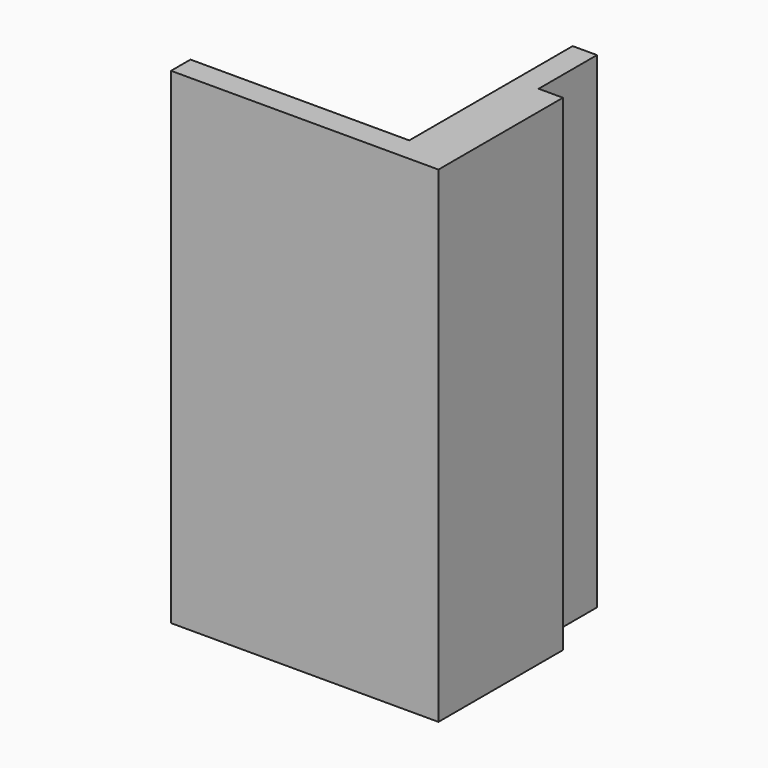
from build123d import *

# Parameters (mm, degrees)
F0_W     = 5
F0_H     = 15
F0_H_2   = 5
F1_DEPTH = 100
F2_DEPTH = 27
F3_DEPTH = 27


with BuildPart() as f1:
    # F0 (on Top) → F1 (new body)
    with BuildSketch(Plane.XY):
        Polygon((0, -5), (0, 0), (-5, 0), (-50, 0), (-50, -5), align=None)
        with Locations((-2.5, 7.5)):
            Rectangle(F0_W, F0_H)
        with Locations((2.5, -2.5)):
            Rectangle(F0_W, F0_H_2)
    extrude(amount=F1_DEPTH)

    # F2 (add): a face of the model
    f2_faces = [f1.faces().sort_by_distance(p)[0] for p in [
        (-22.5, -5, 50),
    ]]
    extrude(f2_faces, amount=F2_DEPTH)

    # F3 (cut): a face of the model
    f3_faces = [f1.faces().sort_by_distance(p)[0] for p in [
        (-27.5, 0, 50),
    ]]
    extrude(f3_faces, amount=-F3_DEPTH, mode=Mode.SUBTRACT)


solid = f1.part
